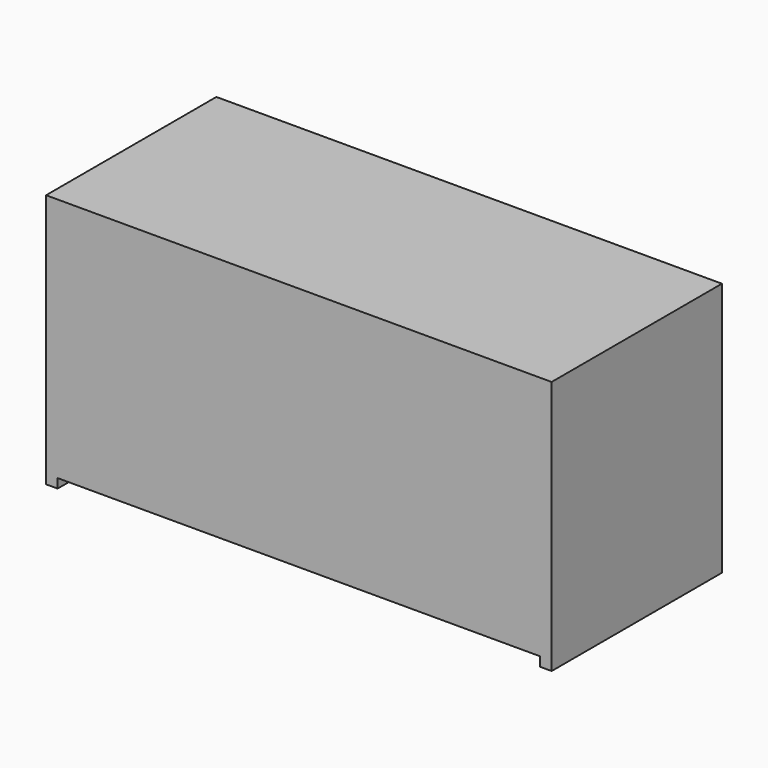
from build123d import *

# Parameters (mm, degrees)
F0_W     = 21.85
F0_H     = 9.2
F1_DEPTH = 10.6
F2_W     = 0.5
F2_H     = 9.2
F3_DEPTH = 0.4


with BuildPart() as f1:
    # F0 (on Top) → F1 (new body)
    with BuildSketch(Plane.XY):
        Rectangle(F0_W, F0_H)
    extrude(amount=F1_DEPTH)

    # F2 (on face) → F3 (join)
    with BuildSketch(Plane(origin=(0, 0, 0), x_dir=(1, 0, 0), z_dir=(0, 0, -1))):
        with Locations((-10.675, 0)):
            Rectangle(F2_W, F2_H)
        with Locations((10.675, 0)):
            Rectangle(F2_W, F2_H)
    extrude(amount=F3_DEPTH)


solid = f1.part
